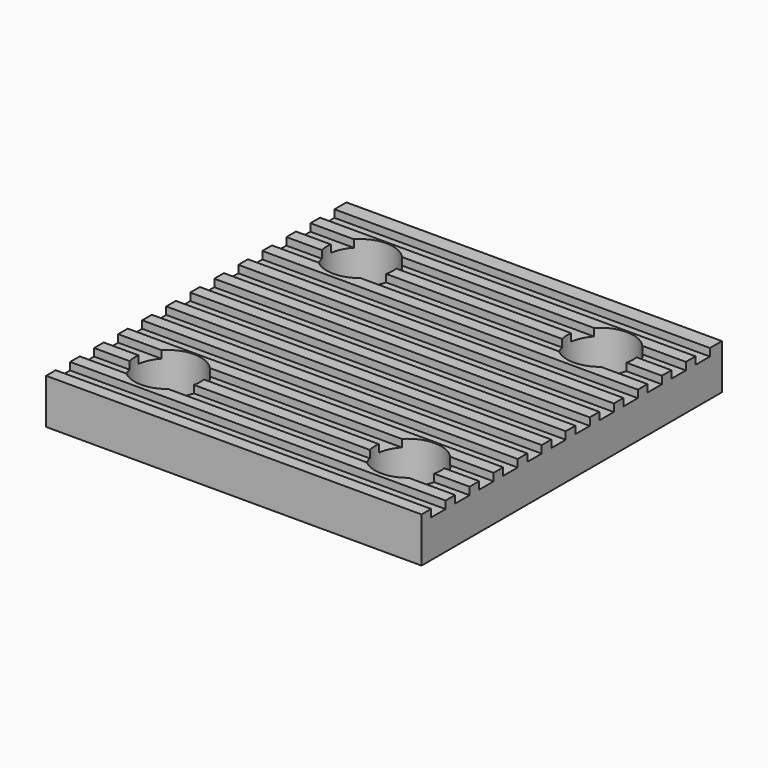
from build123d import *

# Parameters (mm, degrees)
F0_W     = 25
F0_H     = 25
F1_DEPTH = 3
F2_D     = 4.4
F3_W     = 1.2
F3_H     = 0.5
F4_DEPTH = 25.001


with BuildPart() as f1:
    # F0 (on Top) → F1 (new body)
    with BuildSketch(Plane.XY):
        Rectangle(F0_W, F0_H)
    extrude(amount=F1_DEPTH)

    # F2 (through all)
    with Locations(Plane(origin=(0, 0, 0), x_dir=(1, 0, 0), z_dir=(0, 0, -1))):
        with Locations((-8, -8), (8, -8), (8, 8), (-8, 8)):
            Hole(F2_D / 2)

    # F3 (on face) → F4 (cut, through all)
    with BuildSketch(Plane.YZ.offset(12.5)):
        with Locations((-11.1, 2.75)):
            Rectangle(F3_W, F3_H)
        with Locations((-9.1, 2.75)):
            Rectangle(F3_W, F3_H)
        with Locations((-7.1, 2.75)):
            Rectangle(F3_W, F3_H)
        with Locations((-5.1, 2.75)):
            Rectangle(F3_W, F3_H)
        with Locations((-3.1, 2.75)):
            Rectangle(F3_W, F3_H)
        with Locations((-1.1, 2.75)):
            Rectangle(F3_W, F3_H)
        with Locations((0.9, 2.75)):
            Rectangle(F3_W, F3_H)
        with Locations((2.9, 2.75)):
            Rectangle(F3_W, F3_H)
        with Locations((4.9, 2.75)):
            Rectangle(F3_W, F3_H)
        with Locations((6.9, 2.75)):
            Rectangle(F3_W, F3_H)
        with Locations((8.9, 2.75)):
            Rectangle(F3_W, F3_H)
        with Locations((10.9, 2.75)):
            Rectangle(F3_W, F3_H)
    extrude(amount=-F4_DEPTH, mode=Mode.SUBTRACT)


solid = f1.part
